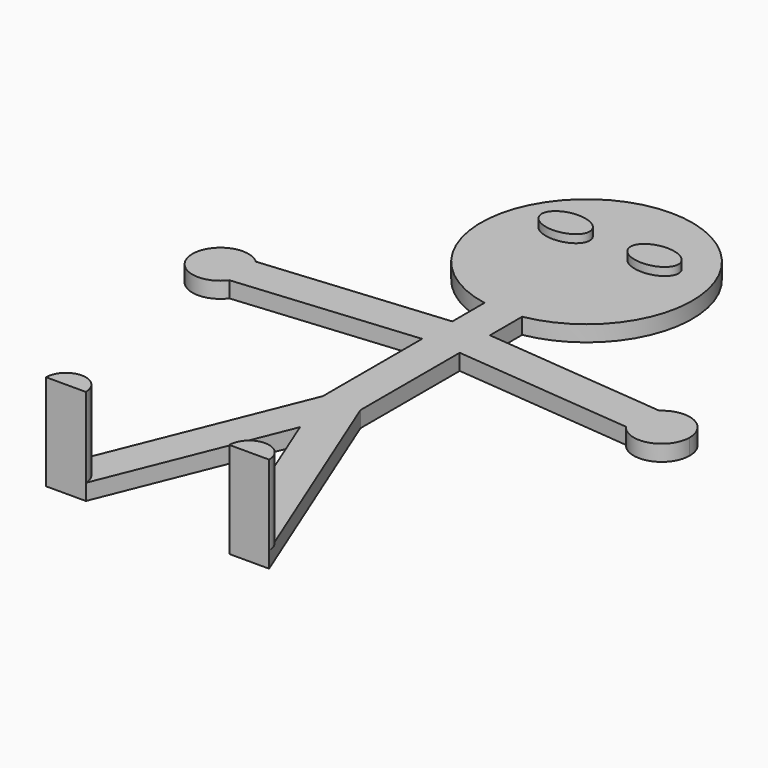
from build123d import *

# Parameters (mm, degrees)
F1_DEPTH = 0.508
F3_DEPTH = 2.54
F5_DEPTH = 0.254


with BuildPart() as f1:
    # F0 (on Top) → F1 (new body)
    with BuildSketch(Plane.XY):
        with BuildLine():
            Line((0.5969, 12.4386211307), (0.5969, 13.7155528236))
            ThreePointArc((0.5969, 13.7155528236), (0, 20.3739569369), (-0.5969, 13.7155528236))
            Line((-0.5969, 13.7155528236), (-0.5969, 12.4386211307))
            Line((-0.5969, 12.4386211307), (-6.4008217303, 11.9018768547))
            ThreePointArc((-6.4008217303, 11.9018768547), (-6.1880330513, 11.6046108469), (-6.1128665152, 11.2468454306))
            ThreePointArc((-6.1128665152, 11.2468454306), (-6.1585456161, 10.965543349), (-6.2908886999, 10.7131493128))
            Line((-6.2908886999, 10.7131493128), (-0.5969, 11.2397270277))
            Line((-0.5969, 11.2397270277), (-0.5969, 7.3000811972))
            Line((-0.5969, 7.3000811972), (-3.5388981923, 0))
            Line((-3.5388981923, 0), (-2.2769883957, 0))
            Line((-2.2769883957, 0), (0, 5.6499695401))
            Line((0, 5.6499695401), (2.2769883957, 0))
            Line((2.2769883957, 0), (3.5388981923, 0))
            Line((3.5388981923, 0), (0.5969, 7.3000811972))
            Line((0.5969, 7.3000811972), (0.5969, 11.2397270277))
            Line((0.5969, 11.2397270277), (6.2908886999, 10.7131493128))
            ThreePointArc((6.2908886999, 10.7131493128), (6.1166438776, 11.3287104532), (6.4008217303, 11.9018768547))
            Line((6.4008217303, 11.9018768547), (0.5969, 12.4386211307))
        make_face()
        with BuildLine():
            ThreePointArc((7.8908665152, 11.2468454306), (7.3596319315, 12.0606788944), (6.4008217303, 11.9018768547))
            Line((6.4008217303, 11.9018768547), (7.0568330304, 11.8412092015))
            Line((7.0568330304, 11.8412092015), (6.9469, 10.6524816596))
            Line((6.9469, 10.6524816596), (6.2908886999, 10.7131493128))
            ThreePointArc((6.2908886999, 10.7131493128), (7.2831685968, 10.4035245315), (7.8908665152, 11.2468454306))
        make_face()
        with BuildLine():
            Line((7.0568330304, 11.8412092015), (6.4008217303, 11.9018768547))
            ThreePointArc((6.4008217303, 11.9018768547), (6.1166438776, 11.3287104532), (6.2908886999, 10.7131493128))
            Line((6.2908886999, 10.7131493128), (6.9469, 10.6524816596))
            Line((6.9469, 10.6524816596), (7.0568330304, 11.8412092015))
        make_face()
        with BuildLine():
            ThreePointArc((-6.1128665152, 11.2468454306), (-6.1880330513, 11.6046108469), (-6.4008217303, 11.9018768547))
            Line((-6.4008217303, 11.9018768547), (-7.0568330304, 11.8412092015))
            Line((-7.0568330304, 11.8412092015), (-6.9469, 10.6524816596))
            Line((-6.9469, 10.6524816596), (-6.2908886999, 10.7131493128))
            ThreePointArc((-6.2908886999, 10.7131493128), (-6.1585456161, 10.965543349), (-6.1128665152, 11.2468454306))
        make_face()
        with BuildLine():
            Line((-7.0568330304, 11.8412092015), (-6.4008217303, 11.9018768547))
            ThreePointArc((-6.4008217303, 11.9018768547), (-7.8870891528, 11.164980408), (-6.2908886999, 10.7131493128))
            Line((-6.2908886999, 10.7131493128), (-6.9469, 10.6524816596))
            Line((-6.9469, 10.6524816596), (-7.0568330304, 11.8412092015))
        make_face()
    extrude(amount=F1_DEPTH)

    # F2 (on face) → F3 (join)
    with BuildSketch(Plane.XY.offset(0.508)):
        with BuildLine():
            Line((-3.5388981923, 0), (-2.2769883957, 0))
            ThreePointArc((-2.2769883957, 0), (-2.907943294, 0.6309548983), (-3.5388981923, 0))
        make_face()
        with BuildLine():
            ThreePointArc((3.5388981923, 0), (2.907943294, 0.6309548983), (2.2769883957, 0))
            Line((2.2769883957, 0), (3.5388981923, 0))
        make_face()
    extrude(amount=F3_DEPTH)

    # F4 (on face) → F5 (join)
    with BuildSketch(Plane.XY.offset(0.508)):
        with BuildLine():
            add(Edge.make_bspline(
                [(-0.6474794169, 17.9513804615), (-0.6474794169, 18.8312622717), (-1.7904794169, 18.3913213666), (-2.9334794169, 17.9513804615), (-1.7904794169, 17.5114395563), (-0.6474794169, 17.0714986512), (-0.6474794169, 17.9513804615)],
                knots=[0, 0, 0, 2.0943951024, 2.0943951024, 4.1887902048, 4.1887902048, 6.2831853072, 6.2831853072, 6.2831853072], degree=2, weights=[1, 0.5, 1, 0.5, 1, 0.5, 1]))
        make_face()
        with BuildLine():
            add(Edge.make_bspline(
                [(0.6474794169, 17.9513804615), (0.6474794169, 17.0714986512), (1.7904794169, 17.5114395563), (2.9334794169, 17.9513804615), (1.7904794169, 18.3913213666), (0.6474794169, 18.8312622717), (0.6474794169, 17.9513804615)],
                knots=[0, 0, 0, 2.0943951024, 2.0943951024, 4.1887902048, 4.1887902048, 6.2831853072, 6.2831853072, 6.2831853072], degree=2, weights=[1, 0.5, 1, 0.5, 1, 0.5, 1]))
        make_face()
    extrude(amount=F5_DEPTH)


solid = f1.part
